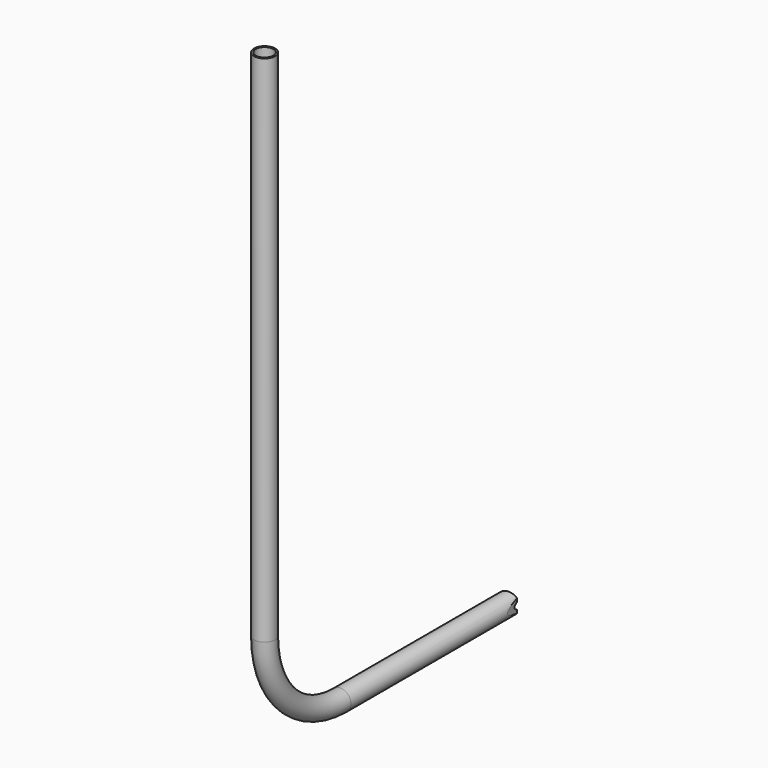
from build123d import *

# Parameters (mm, degrees)
F1_R          = 16.7
F1_R_2        = 13.932
F4_DEPTH      = 16.7010001
F4_DEPTH_BACK = 963.001


with BuildPart() as f2:
    # F2: sweep along a path in F0
    with BuildLine(Plane.YZ) as f2_path:
        Line((0, 0), (-333.6, 0))
        ThreePointArc((-333.6, 0), (-439.666017178, 43.933982822), (-483.6, 150))
        Line((-483.6, 150), (-483.6, 963))
    # F1 (on Front) → F2 (sweep)
    with BuildSketch(Plane.XZ):
        Circle(F1_R)
        Circle(F1_R_2, mode=Mode.SUBTRACT)
    sweep(path=f2_path.line)

    # F3 (on Top) → F4 (cut, two sides)
    with BuildSketch(Plane.XY) as f4_sk:
        Polygon((-16.7, 0), (0, 0), (-16.7, 2.6450201534), align=None)
        Polygon((16.7, 0), (0, 0), (-16.7, 0), (-16.7, -5.2900403068), (12.9306502179, -0.5970063556), (16.7, -24.395744252), (16.7, -5.4741381354), (16.7, -2.6450201534), align=None)
    extrude(amount=-F4_DEPTH, mode=Mode.SUBTRACT)
    extrude(f4_sk.sketch, amount=F4_DEPTH_BACK, mode=Mode.SUBTRACT)


solid = f2.part
